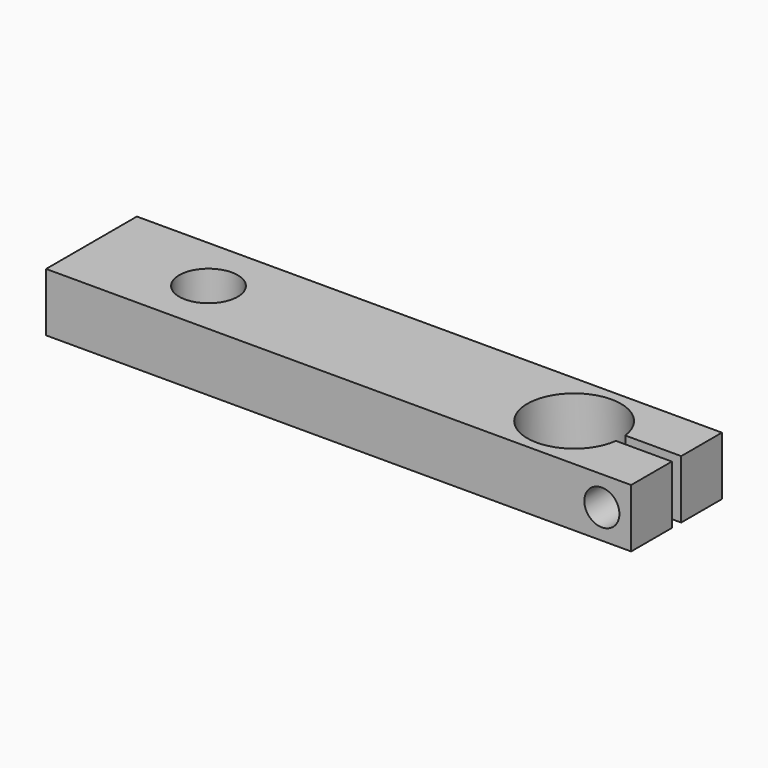
from build123d import *

# Parameters (mm, degrees)
SKETCH048_W           = 9.7
SKETCH048_H           = 50
SKETCH048_R           = 4
SKETCH048_R_2         = 2.5
PAD028_DEPTH          = 5
SKETCH049_W           = 1
SKETCH049_H           = 5.04
POCKET023_DEPTH       = 5.001
SKETCH050_R           = 1.5
POCKET024_DEPTH       = 9.701
CLONE_PLACEMENT_ANGLE = 90


with BuildPart() as part:
    # Sketch048 → Pad028 (new body)
    with BuildSketch(Plane.XY):
        Rectangle(SKETCH048_W, SKETCH048_H)
        with Locations((0, -16.25)):
            Circle(SKETCH048_R, mode=Mode.SUBTRACT)
        with Locations((0, 15)):
            Circle(SKETCH048_R_2, mode=Mode.SUBTRACT)
    extrude(amount=PAD028_DEPTH)

    # Sketch049 (on Face8 of Pad028) → Pocket023 (cut, through all)
    with BuildSketch(Plane.XY.offset(5)):
        with Locations((0, -22.48)):
            Rectangle(SKETCH049_W, SKETCH049_H)
    extrude(amount=-POCKET023_DEPTH, mode=Mode.SUBTRACT)

    # Sketch050 (on Face3 of Pocket023) → Pocket024 (cut, through all)
    with BuildSketch(Plane.YZ.offset(4.85)):
        with Locations((-22.5, 2.5)):
            Circle(SKETCH050_R)
    extrude(amount=-POCKET024_DEPTH, mode=Mode.SUBTRACT)


with BuildPart() as part_1:
    # Clone placement: moved
    add(part.part.moved(Location((-326, 1, 493))).rotate(Axis((-326, 1, 493), (0, 0, 1)), CLONE_PLACEMENT_ANGLE))


solid = part_1.part
